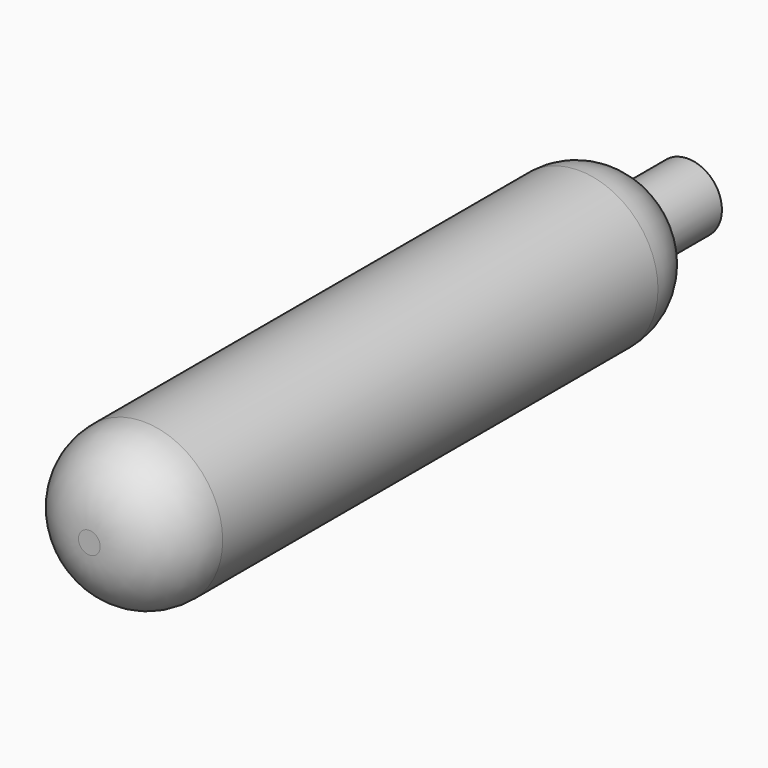
from build123d import *

# Parameters (mm, degrees)
F0_R     = 7.367097
F1_DEPTH = 63.5
F2_R     = 6.35
F3_R     = 6.35
F4_R     = 3.175
F5_DEPTH = 6.35


with BuildPart() as f1:
    # F0 (on Front) → F1 (new body)
    with BuildSketch(Plane.XZ):
        Circle(F0_R)
    extrude(amount=F1_DEPTH)

    # F2
    f2_edges = [f1.edges().sort_by_distance(p)[0] for p in [
        (-7.367097, -63.5, 0),
    ]]
    fillet(f2_edges, radius=F2_R)

    # F3
    f3_edges = [f1.edges().sort_by_distance(p)[0] for p in [
        (-7.367097, 0, 0),
    ]]
    fillet(f3_edges, radius=F3_R)

    # F4 (on Front) → F5 (join, symmetric)
    with BuildSketch(Plane.XZ):
        Circle(F4_R)
    extrude(amount=F5_DEPTH, both=True)


solid = f1.part
